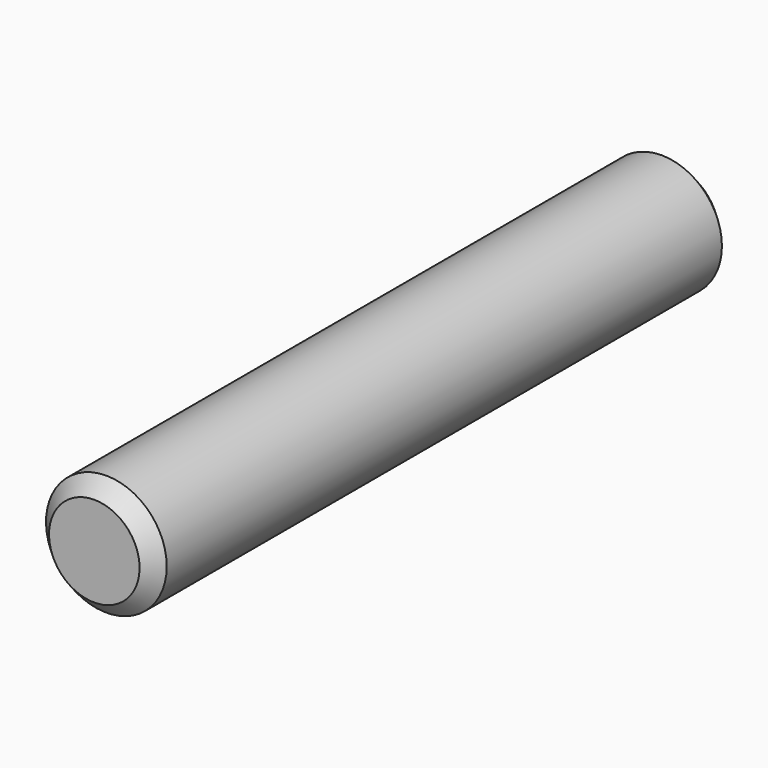
from build123d import *

# Parameters (mm, degrees)
SKETCH_R  = 2.5
PAD_DEPTH = 15


with BuildPart() as part:
    # Sketch → Pad (new body, symmetric)
    with BuildSketch(Plane.XZ):
        Circle(SKETCH_R)
    extrude(amount=PAD_DEPTH, both=True)

    # Sketch001 → Groove (revolve, cut)
    with BuildSketch(Plane.YZ):
        Polygon((-15, 4.5), (15, 4.5), (15, 1.875), (14.375, 2.5), (-14.375, 2.5), (-15, 1.875), align=None)
    revolve(axis=Axis((0, 0, 0), (0, 1, 0)), mode=Mode.SUBTRACT)


solid = part.part
